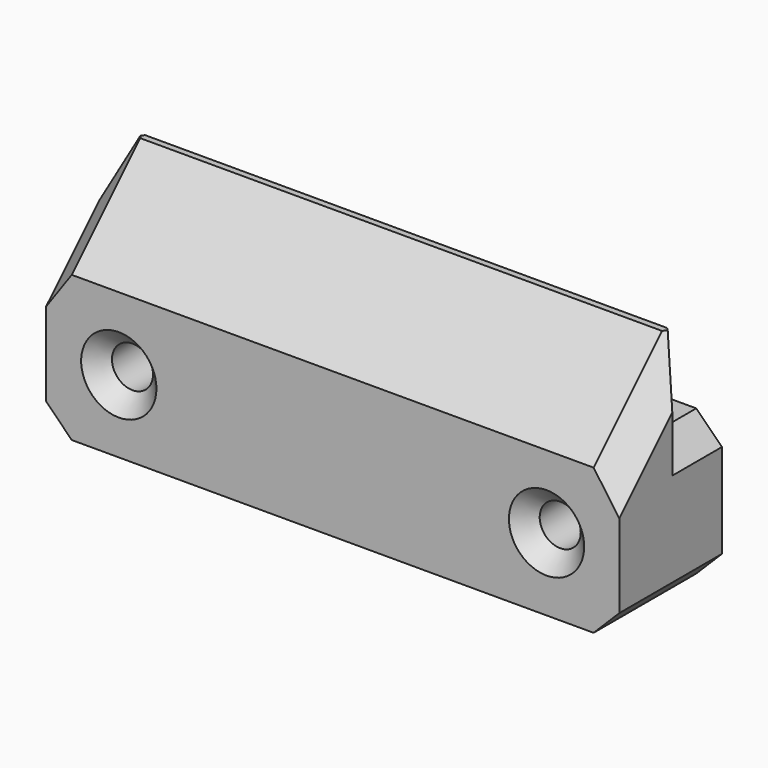
from build123d import *

# Parameters (mm, degrees)
F0_W     = 67
F0_H     = 17
F0_R     = 2.4
F0_H_2   = 10
F1_DEPTH = 15
F2_DEPTH = 4.25
F3_SIZE  = 2
F4_SIZE  = 10
F5_SIZE  = 3


with BuildPart() as f1:
    # F0 (on Front) → F1 (new body)
    with BuildSketch(Plane.XZ):
        Rectangle(F0_W, F0_H)
        with Locations((-25, 0)):
            Circle(F0_R, mode=Mode.SUBTRACT)
        with Locations((25, 0)):
            Circle(F0_R, mode=Mode.SUBTRACT)
        with Locations((0, 13.5)):
            Rectangle(F0_W, F0_H_2)
    extrude(amount=F1_DEPTH)

    # F0 (on Front) → F2 (cut)
    with BuildSketch(Plane.XZ):
        with Locations((0, 13.5)):
            Rectangle(F0_W, F0_H_2)
    extrude(amount=F2_DEPTH, mode=Mode.SUBTRACT)

    # F3
    f3_edges = [f1.edges().sort_by_distance(p)[0] for p in [
        (-27.4, -15, 0),
        (22.6, -15, 0),
    ]]
    chamfer(f3_edges, length=F3_SIZE)

    # F4
    f4_edges = [f1.edges().sort_by_distance(p)[0] for p in [
        (0, -15, 18.5),
    ]]
    chamfer(f4_edges, length=F4_SIZE)

    # F5 (call 1 of 6: OpenCascade refuses the feature's edges together)
    f5_edges = [f1.edges().sort_by_distance(p)[0] for p in [
        (-33.5, -10, 13.5),
    ]]
    chamfer(f5_edges, length=F5_SIZE)

    # F5#2 (call 2 of 6)
    f5_2_edges = [f1.edges().sort_by_distance(p)[0] for p in [
        (33.5, -10, 13.5),
    ]]
    chamfer(f5_2_edges, length=F5_SIZE)

    # F5#3 (call 3 of 6)
    f5_3_edges = [f1.edges().sort_by_distance(p)[0] for p in [
        (33.5, -7.5, -8.5),
    ]]
    chamfer(f5_3_edges, length=F5_SIZE)

    # F5#4 (call 4 of 6)
    f5_4_edges = [f1.edges().sort_by_distance(p)[0] for p in [
        (-33.5, -7.5, -8.5),
    ]]
    chamfer(f5_4_edges, length=F5_SIZE)

    # F5#5 (call 5 of 6)
    f5_5_edges = [f1.edges().sort_by_distance(p)[0] for p in [
        (33.5, -2.125, 8.5),
        (33.5, -4.25, 13.5),
    ]]
    chamfer(f5_5_edges, length=F5_SIZE)

    # F5#6 (call 6 of 6)
    f5_6_edges = [f1.edges().sort_by_distance(p)[0] for p in [
        (-33.5, -4.25, 13.5),
        (-33.5, -2.125, 8.5),
    ]]
    chamfer(f5_6_edges, length=F5_SIZE)


solid = f1.part
